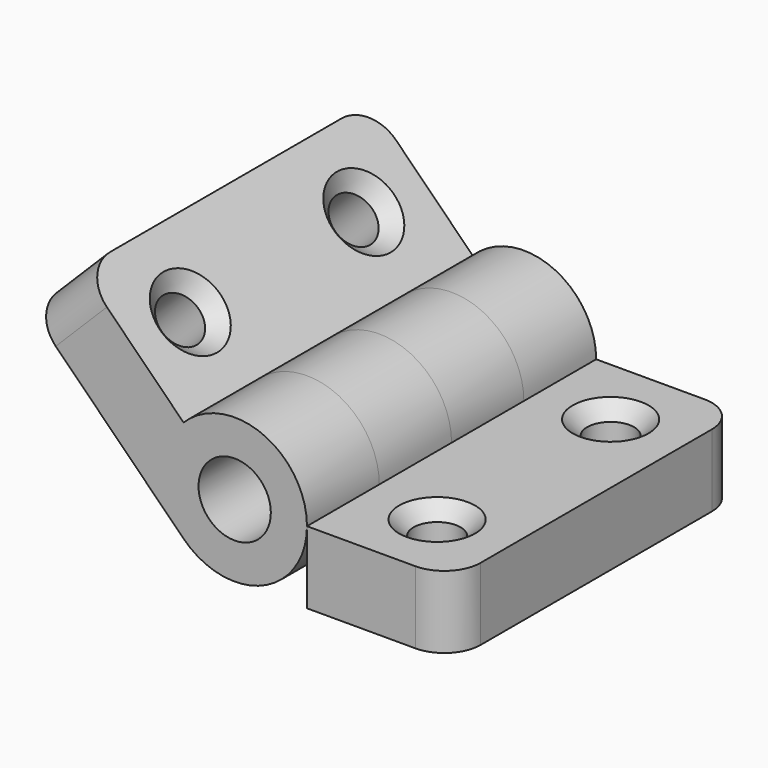
from build123d import *

# Parameters (mm, degrees)
SKETCH_R                = 5
PAD_DEPTH               = 25
SKETCH001_R             = 3.25
POCKET_DEPTH            = 10
CHAMFER_SIZE            = 2
FILLET_R                = 5
SKETCH004_W             = 20
SKETCH004_H             = 12.5
POCKET002_DEPTH         = 20.001
SKETCH005_R             = 5
PAD001_DEPTH            = 25
SKETCH006_R             = 3.25
POCKET003_DEPTH         = 10
CHAMFER001_SIZE         = 2
FILLET001_R             = 5
SKETCH007_W             = 20
SKETCH007_H             = 12.5
POCKET004_DEPTH         = 20.001
BODY001_PITCH_ANGLE     = -45
BODY001_PLACEMENT_ANGLE = 180


with BuildPart() as body:
    # Sketch → Pad (new body, symmetric)
    with BuildSketch(Plane.XZ):
        with BuildLine():
            ThreePointArc((10, 0), (-7.071068, 7.071068), (0, -10))
            Line((0, -10), (30, -10))
            Line((30, -10), (30, 0))
            Line((30, 0), (10, 0))
        make_face()
        Circle(SKETCH_R, mode=Mode.SUBTRACT)
    extrude(amount=PAD_DEPTH, both=True)

    # Sketch001 (on Face4 of Pad) → Pocket (cut)
    with BuildSketch(Plane(origin=(0, 0, 0), x_dir=(-1, 0, 0), z_dir=(0, 0, 1))):
        with Locations((-20, -15)):
            Circle(SKETCH001_R)
        with Locations((-20, 15)):
            Circle(SKETCH001_R)
    extrude(amount=-POCKET_DEPTH, mode=Mode.SUBTRACT)

    # Chamfer
    chamfer_edges = [body.edges().sort_by_distance(p)[0] for p in [
        (23.25, -15, 0),
        (23.25, 15, 0),
    ]]
    chamfer(chamfer_edges, length=CHAMFER_SIZE)

    # Fillet
    fillet_edges = [body.edges().sort_by_distance(p)[0] for p in [
        (30, 25, -5),
        (30, -25, -5),
    ]]
    fillet(fillet_edges, radius=FILLET_R)

    # Sketch004 (on Face10 of Fillet) → Pocket002 (cut, through all)
    with BuildSketch(Plane(origin=(0, 0, -10), x_dir=(1, 0, 0), z_dir=(0, 0, -1))):
        with Locations((0, 18.75)):
            Rectangle(SKETCH004_W, SKETCH004_H)
        with Locations((0, -6.25)):
            Rectangle(SKETCH004_W, SKETCH004_H)
    extrude(amount=-POCKET002_DEPTH, mode=Mode.SUBTRACT)


with BuildPart() as body001:
    # Sketch005 → Pad001 (new body, symmetric)
    with BuildSketch(Plane.XZ):
        with BuildLine():
            ThreePointArc((10, 0), (-7.071068, 7.071068), (0, -10))
            Line((0, -10), (30, -10))
            Line((30, -10), (30, 0))
            Line((30, 0), (10, 0))
        make_face()
        Circle(SKETCH005_R, mode=Mode.SUBTRACT)
    extrude(amount=PAD001_DEPTH, both=True)

    # Sketch006 (on Face4 of Pad001) → Pocket003 (cut)
    with BuildSketch(Plane(origin=(0, 0, 0), x_dir=(-1, 0, 0), z_dir=(0, 0, 1))):
        with Locations((-20, -15)):
            Circle(SKETCH006_R)
        with Locations((-20, 15)):
            Circle(SKETCH006_R)
    extrude(amount=-POCKET003_DEPTH, mode=Mode.SUBTRACT)

    # Chamfer001
    chamfer001_edges = [body001.edges().sort_by_distance(p)[0] for p in [
        (23.25, -15, 0),
        (23.25, 15, 0),
    ]]
    chamfer(chamfer001_edges, length=CHAMFER001_SIZE)

    # Fillet001
    fillet001_edges = [body001.edges().sort_by_distance(p)[0] for p in [
        (30, 25, -5),
        (30, -25, -5),
    ]]
    fillet(fillet001_edges, radius=FILLET001_R)

    # Sketch007 (on Face10 of Fillet001) → Pocket004 (cut, through all)
    with BuildSketch(Plane(origin=(0, 0, -10), x_dir=(1, 0, 0), z_dir=(0, 0, -1))):
        with Locations((0, 18.75)):
            Rectangle(SKETCH007_W, SKETCH007_H)
        with Locations((0, -6.25)):
            Rectangle(SKETCH007_W, SKETCH007_H)
    extrude(amount=-POCKET004_DEPTH, mode=Mode.SUBTRACT)


with BuildPart() as body001_1:
    # Body001 pitch: moved
    add(body001.part.rotate(Axis((0, 0, 0), (0, 1, 0)), BODY001_PITCH_ANGLE))


with BuildPart() as body001_2:
    # Body001 placement: moved
    add(body001_1.part.rotate(Axis((0, 0, 0), (0, 0, 1)), BODY001_PLACEMENT_ANGLE))


solid = Compound([body.part, body001_2.part])
